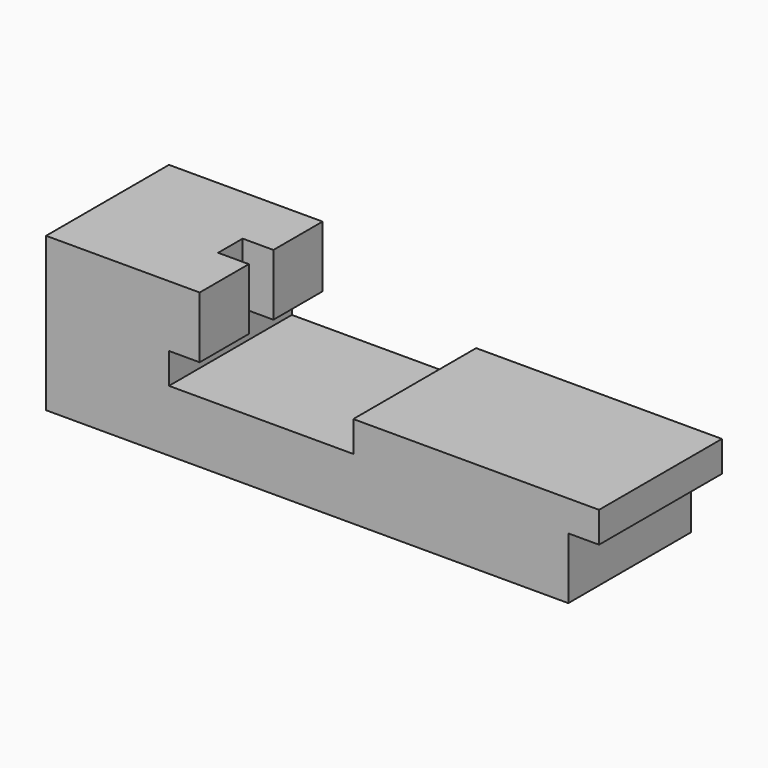
from build123d import *

# Parameters (mm, degrees)
F0_W     = 50
F0_H     = 50
F1_DEPTH = 100
F3_DEPTH = 50
F4_W     = 10
F4_H     = 10
F5_DEPTH = 20


with BuildPart() as f1:
    # F0 (on Right) → F1 (new body, symmetric)
    with BuildSketch(Plane.YZ):
        Rectangle(F0_W, F0_H)
    extrude(amount=F1_DEPTH, both=True)

    # F2 (on face) → F3 (cut, through all)
    with BuildSketch(Plane.XZ.offset(25)):
        Polygon((-60, 5), (-60, -5), (0, -5), (0, 5), (80, 5), (80, -5), (70, -5), (70, -25), (100, -25), (100, 25), (-50, 25), (-50, 5), align=None)
    extrude(amount=-F3_DEPTH, mode=Mode.SUBTRACT)

    # F4 (on face) → F5 (cut, through all)
    with BuildSketch(Plane.XY.offset(25)):
        with Locations((-55, 0)):
            Rectangle(F4_W, F4_H)
    extrude(amount=-F5_DEPTH, mode=Mode.SUBTRACT)


solid = f1.part
